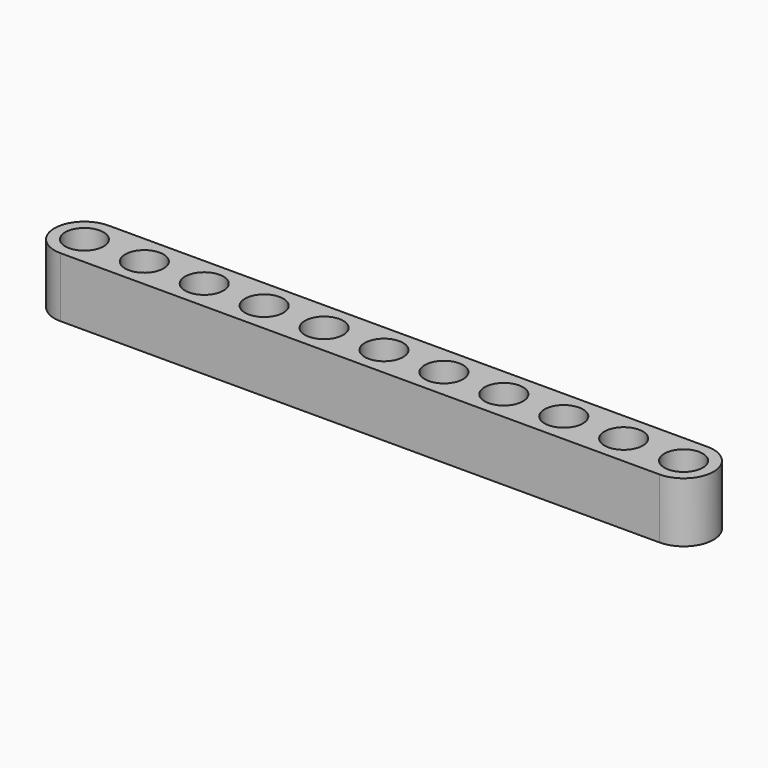
from build123d import *

# Parameters (mm, degrees)
F0_R     = 2.54
F1_DEPTH = 7.9375


with BuildPart() as f1:
    # F0 (on Top) → F1 (new body)
    with BuildSketch(Plane.XY):
        with BuildLine():
            Line((79.375, 0), (0, 0))
            ThreePointArc((0, 0), (-3.96875, -3.96875), (0, -7.9375))
            Line((0, -7.9375), (79.375, -7.9375))
            ThreePointArc((79.375, -7.9375), (83.34375, -3.96875), (79.375, 0))
        make_face()
        with Locations((0, -3.96875)):
            Circle(F0_R, mode=Mode.SUBTRACT)
        with Locations((7.9375, -3.96875)):
            Circle(F0_R, mode=Mode.SUBTRACT)
        with Locations((15.875, -3.96875)):
            Circle(F0_R, mode=Mode.SUBTRACT)
        with Locations((23.8125, -3.96875)):
            Circle(F0_R, mode=Mode.SUBTRACT)
        with Locations((31.75, -3.96875)):
            Circle(F0_R, mode=Mode.SUBTRACT)
        with Locations((39.6875, -3.96875)):
            Circle(F0_R, mode=Mode.SUBTRACT)
        with Locations((47.625, -3.96875)):
            Circle(F0_R, mode=Mode.SUBTRACT)
        with Locations((55.5625, -3.96875)):
            Circle(F0_R, mode=Mode.SUBTRACT)
        with Locations((63.5, -3.96875)):
            Circle(F0_R, mode=Mode.SUBTRACT)
        with Locations((71.4375, -3.96875)):
            Circle(F0_R, mode=Mode.SUBTRACT)
        with Locations((79.375, -3.96875)):
            Circle(F0_R, mode=Mode.SUBTRACT)
    extrude(amount=F1_DEPTH)


solid = f1.part
